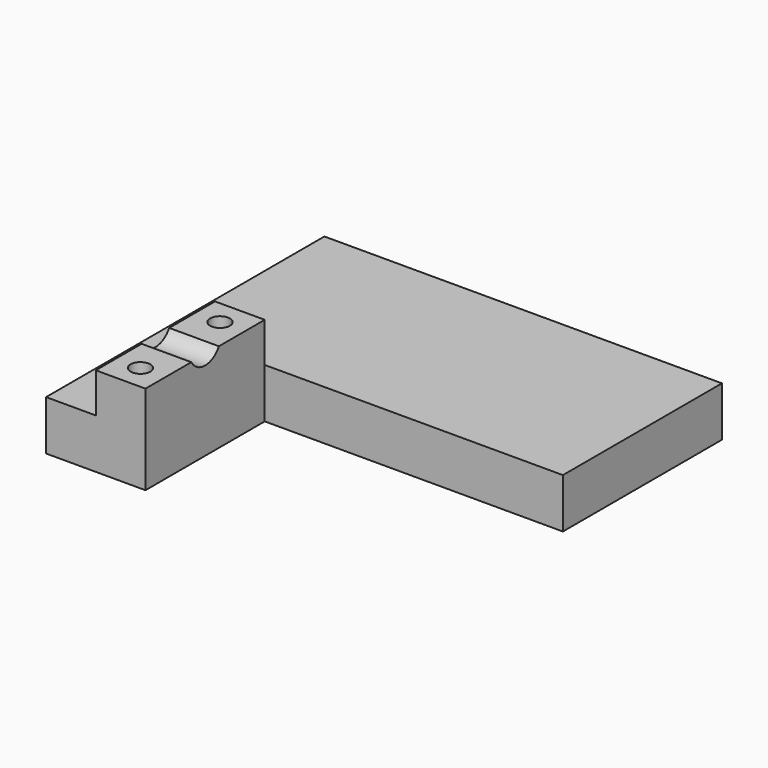
from build123d import *

# Parameters (mm, degrees)
PAD001_DEPTH    = 10
SKETCH002_W     = 10
SKETCH002_H     = 30
PAD002_DEPTH    = 8
SKETCH003_R     = 4
POCKET_DEPTH    = 10
SKETCH004_R     = 2
POCKET001_DEPTH = 20
SKETCH005_R     = 2
POCKET002_DEPTH = 20


with BuildPart() as part:
    # Sketch001 → Pad001 (new body)
    with BuildSketch(Plane(origin=(0, 0, 0), x_dir=(1, 0, 0), z_dir=(0, 0, -1))):
        Polygon((-300, 190), (-280, 190), (-280, 160), (-220, 160), (-220, 120), (-300, 120), align=None)
    extrude(amount=PAD001_DEPTH)

    # Sketch002 → Pad002 (new body)
    with BuildSketch(Plane.XY):
        with Locations((-285, -175)):
            Rectangle(SKETCH002_W, SKETCH002_H)
    extrude(amount=PAD002_DEPTH)

    # Sketch003 → Pocket (cut)
    with BuildSketch(Plane.YZ.offset(-280)):
        with Locations((-175, 10)):
            Circle(SKETCH003_R)
    extrude(amount=-POCKET_DEPTH, mode=Mode.SUBTRACT)

    # Sketch004 → Pocket001 (cut)
    with BuildSketch(Plane.XY.offset(8)):
        with Locations((-285, -185)):
            Circle(SKETCH004_R)
    extrude(amount=-POCKET001_DEPTH, mode=Mode.SUBTRACT)

    # Sketch005 → Pocket002 (cut)
    with BuildSketch(Plane.XY.offset(8)):
        with Locations((-285, -165)):
            Circle(SKETCH005_R)
    extrude(amount=-POCKET002_DEPTH, mode=Mode.SUBTRACT)


solid = part.part
